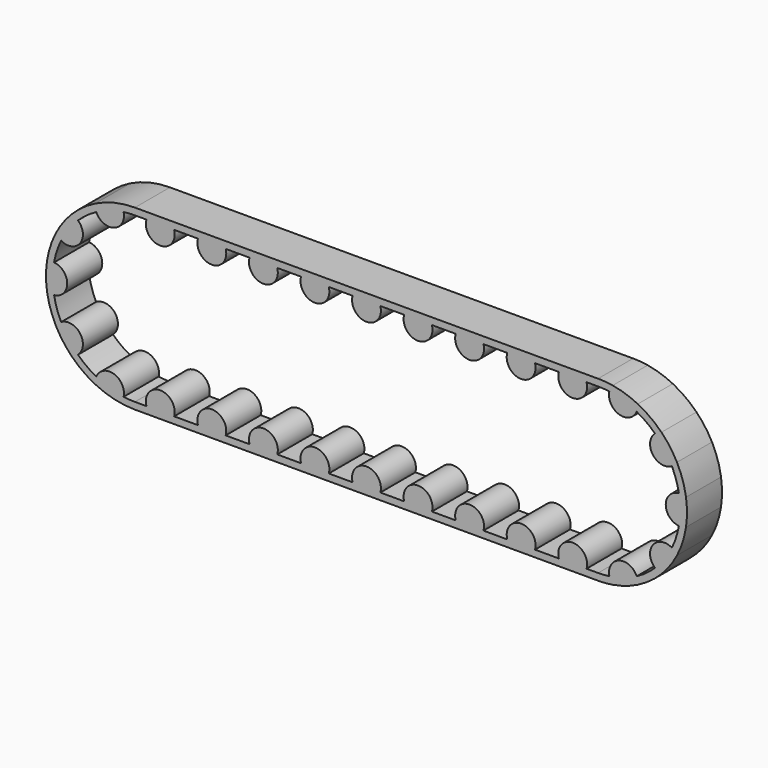
from build123d import *

# Parameters (mm, degrees)
F3_DEPTH = 25.4


with BuildPart() as f3:
    # F2 (on Front) → F3 (new body)
    with BuildSketch(Plane.XZ):
        with BuildLine():
            ThreePointArc((-6.5580901404, 47.171305671), (-3.2868824452, 47.5114410305), (0, 47.625))
            Line((0, 47.625), (6.6759446819, 47.625))
            ThreePointArc((6.6759446819, 47.625), (7.6523000339, 49.786472114), (9.1956373991, 51.5874))
            Line((9.1956373991, 51.5874), (0, 51.5874))
            ThreePointArc((0, 51.5874), (-4.2571154541, 51.4114462622), (-8.485190663, 50.8847853309))
            ThreePointArc((-8.485190663, 50.8847853309), (-7.2859359113, 49.1503637276), (-6.5580901404, 47.171305671))
        make_face()
        with BuildLine():
            ThreePointArc((-22.4209914306, 42.0171366024), (-14.7169343571, 45.2940665886), (-6.5580901404, 47.171305671))
            ThreePointArc((-6.5580901404, 47.171305671), (-7.2859359113, 49.1503637276), (-8.485190663, 50.8847853309))
            ThreePointArc((-8.485190663, 50.8847853309), (-15.9413832956, 49.0625329287), (-23.0446629367, 46.1541260224))
            ThreePointArc((-23.0446629367, 46.1541260224), (-22.9954129717, 44.0460452131), (-22.4209914306, 42.0171366024))
        make_face()
        with BuildLine():
            ThreePointArc((9.1956373991, 51.5874), (7.6523000339, 49.786472114), (6.6759446819, 47.625))
            Line((6.6759446819, 47.625), (22.7579240323, 47.625))
            ThreePointArc((22.7579240323, 47.625), (21.7815686803, 49.786472114), (20.2382313151, 51.5874))
            Line((20.2382313151, 51.5874), (9.1956373991, 51.5874))
        make_face()
        with BuildLine():
            ThreePointArc((-33.032204179, 34.307639267), (-27.9932726404, 38.5294343571), (-22.4209914306, 42.0171366024))
            ThreePointArc((-22.4209914306, 42.0171366024), (-22.9954129717, 44.0460452131), (-23.0446629367, 46.1541260224))
            ThreePointArc((-23.0446629367, 46.1541260224), (-30.3223129241, 41.7350832956), (-36.7739898304, 36.1791861533))
            ThreePointArc((-36.7739898304, 36.1791861533), (-34.7843049161, 35.4809138575), (-33.032204179, 34.307639267))
        make_face()
        with BuildLine():
            ThreePointArc((20.2382313151, 51.5874), (21.7815686803, 49.786472114), (22.7579240323, 47.625))
            Line((22.7579240323, 47.625), (36.5771902535, 47.625))
            ThreePointArc((36.5771902535, 47.625), (37.5535456055, 49.786472114), (39.0968829707, 51.5874))
            Line((39.0968829707, 51.5874), (20.2382313151, 51.5874))
        make_face()
        with BuildLine():
            ThreePointArc((-42.8360163366, 20.8138494617), (-38.5294343571, 27.9932726404), (-33.032204179, 34.307639267))
            ThreePointArc((-33.032204179, 34.307639267), (-34.7843049161, 35.4809138575), (-36.7739898304, 36.1791861533))
            ThreePointArc((-36.7739898304, 36.1791861533), (-41.7350832956, 30.3223129241), (-45.7722385539, 23.7941592944))
            ThreePointArc((-45.7722385539, 23.7941592944), (-44.4932956849, 22.1176344973), (-42.8360163366, 20.8138494617))
        make_face()
        with BuildLine():
            ThreePointArc((39.0968829707, 51.5874), (37.5535456055, 49.786472114), (36.5771902535, 47.625))
            Line((36.5771902535, 47.625), (52.6591696039, 47.625))
            ThreePointArc((52.6591696039, 47.625), (51.6828142519, 49.786472114), (50.1394768867, 51.5874))
            Line((50.1394768867, 51.5874), (39.0968829707, 51.5874))
        make_face()
        with BuildLine():
            ThreePointArc((-46.8891389446, 8.3396207368), (-45.2940665886, 14.7169343571), (-42.8360163366, 20.8138494617))
            ThreePointArc((-42.8360163366, 20.8138494617), (-44.4932956849, 22.1176344973), (-45.7722385539, 23.7941592944))
            ThreePointArc((-45.7722385539, 23.7941592944), (-49.0625329287, 15.9413832956), (-51.0163747846, 7.6543675504))
            ThreePointArc((-51.0163747846, 7.6543675504), (-48.9962517179, 8.2589608458), (-46.8891389446, 8.3396207368))
        make_face()
        with BuildLine():
            ThreePointArc((50.1394768867, 51.5874), (51.6828142519, 49.786472114), (52.6591696039, 47.625))
            Line((52.6591696039, 47.625), (66.478435825, 47.625))
            ThreePointArc((66.478435825, 47.625), (67.4547911771, 49.786472114), (68.9981285423, 51.5874))
            Line((68.9981285423, 51.5874), (50.1394768867, 51.5874))
        make_face()
        with BuildLine():
            ThreePointArc((-46.8891389446, -8.3396207368), (-47.625, 0), (-46.8891389446, 8.3396207368))
            ThreePointArc((-46.8891389446, 8.3396207368), (-48.9962517179, 8.2589608458), (-51.0163747846, 7.6543675504))
            ThreePointArc((-51.0163747846, 7.6543675504), (-51.5874, 0), (-51.0163747846, -7.6543675504))
            ThreePointArc((-51.0163747846, -7.6543675504), (-48.9962517179, -8.2589608458), (-46.8891389446, -8.3396207368))
        make_face()
        with BuildLine():
            ThreePointArc((68.9981285423, 51.5874), (67.4547911771, 49.786472114), (66.478435825, 47.625))
            Line((66.478435825, 47.625), (82.5604151755, 47.625))
            ThreePointArc((82.5604151755, 47.625), (81.5840598235, 49.786472114), (80.0407224583, 51.5874))
            Line((80.0407224583, 51.5874), (68.9981285423, 51.5874))
        make_face()
        with BuildLine():
            ThreePointArc((-42.8360163366, -20.8138494617), (-45.2940665886, -14.7169343571), (-46.8891389446, -8.3396207368))
            ThreePointArc((-46.8891389446, -8.3396207368), (-48.9962517179, -8.2589608458), (-51.0163747846, -7.6543675504))
            ThreePointArc((-51.0163747846, -7.6543675504), (-49.0625329287, -15.9413832956), (-45.7722385539, -23.7941592944))
            ThreePointArc((-45.7722385539, -23.7941592944), (-44.4932956849, -22.1176344973), (-42.8360163366, -20.8138494617))
        make_face()
        with BuildLine():
            ThreePointArc((80.0407224583, 51.5874), (81.5840598235, 49.786472114), (82.5604151755, 47.625))
            Line((82.5604151755, 47.625), (96.3796813966, 47.625))
            ThreePointArc((96.3796813966, 47.625), (97.3560367487, 49.786472114), (98.8993741139, 51.5874))
            Line((98.8993741139, 51.5874), (80.0407224583, 51.5874))
        make_face()
        with BuildLine():
            ThreePointArc((-33.032204179, -34.307639267), (-38.5294343571, -27.9932726404), (-42.8360163366, -20.8138494617))
            ThreePointArc((-42.8360163366, -20.8138494617), (-44.4932956849, -22.1176344973), (-45.7722385539, -23.7941592944))
            ThreePointArc((-45.7722385539, -23.7941592944), (-41.7350832956, -30.3223129241), (-36.7739898304, -36.1791861533))
            ThreePointArc((-36.7739898304, -36.1791861533), (-34.7843049161, -35.4809138575), (-33.032204179, -34.307639267))
        make_face()
        with BuildLine():
            ThreePointArc((98.8993741139, 51.5874), (97.3560367487, 49.786472114), (96.3796813966, 47.625))
            Line((96.3796813966, 47.625), (112.4616607471, 47.625))
            ThreePointArc((112.4616607471, 47.625), (111.485305395, 49.786472114), (109.9419680298, 51.5874))
            Line((109.9419680298, 51.5874), (98.8993741139, 51.5874))
        make_face()
        with BuildLine():
            ThreePointArc((-22.4209914306, -42.0171366024), (-27.9932726404, -38.5294343571), (-33.032204179, -34.307639267))
            ThreePointArc((-33.032204179, -34.307639267), (-34.7843049161, -35.4809138575), (-36.7739898304, -36.1791861533))
            ThreePointArc((-36.7739898304, -36.1791861533), (-30.3223129241, -41.7350832956), (-23.0446629367, -46.1541260224))
            ThreePointArc((-23.0446629367, -46.1541260224), (-22.9954129717, -44.0460452131), (-22.4209914306, -42.0171366024))
        make_face()
        with BuildLine():
            ThreePointArc((109.9419680298, 51.5874), (111.485305395, 49.786472114), (112.4616607471, 47.625))
            Line((112.4616607471, 47.625), (126.2809269682, 47.625))
            ThreePointArc((126.2809269682, 47.625), (127.2572823202, 49.786472114), (128.8006196855, 51.5874))
            Line((128.8006196855, 51.5874), (109.9419680298, 51.5874))
        make_face()
        with BuildLine():
            ThreePointArc((-6.5580901404, -47.171305671), (-14.7169343571, -45.2940665886), (-22.4209914306, -42.0171366024))
            ThreePointArc((-22.4209914306, -42.0171366024), (-22.9954129717, -44.0460452131), (-23.0446629367, -46.1541260224))
            ThreePointArc((-23.0446629367, -46.1541260224), (-15.9413832956, -49.0625329287), (-8.485190663, -50.8847853309))
            ThreePointArc((-8.485190663, -50.8847853309), (-7.2859359113, -49.1503637276), (-6.5580901404, -47.171305671))
        make_face()
        with BuildLine():
            ThreePointArc((128.8006196855, 51.5874), (127.2572823202, 49.786472114), (126.2809269682, 47.625))
            Line((126.2809269682, 47.625), (142.3629063187, 47.625))
            ThreePointArc((142.3629063187, 47.625), (141.3865509666, 49.786472114), (139.8432136014, 51.5874))
            Line((139.8432136014, 51.5874), (128.8006196855, 51.5874))
        make_face()
        with BuildLine():
            ThreePointArc((0, -47.625), (-3.2868824452, -47.5114410305), (-6.5580901404, -47.171305671))
            ThreePointArc((-6.5580901404, -47.171305671), (-7.2859359113, -49.1503637276), (-8.485190663, -50.8847853309))
            ThreePointArc((-8.485190663, -50.8847853309), (-4.2571154541, -51.4114462622), (0, -51.5874))
            Line((0, -51.5874), (9.1956373991, -51.5874))
            ThreePointArc((9.1956373991, -51.5874), (7.6523000339, -49.786472114), (6.6759446819, -47.625))
            Line((6.6759446819, -47.625), (0, -47.625))
        make_face()
        with BuildLine():
            ThreePointArc((139.8432136014, 51.5874), (141.3865509666, 49.786472114), (142.3629063187, 47.625))
            Line((142.3629063187, 47.625), (156.1821725398, 47.625))
            ThreePointArc((156.1821725398, 47.625), (157.1585278918, 49.786472114), (158.701865257, 51.5874))
            Line((158.701865257, 51.5874), (139.8432136014, 51.5874))
        make_face()
        with BuildLine():
            ThreePointArc((158.701865257, 51.5874), (157.1585278918, 49.786472114), (156.1821725398, 47.625))
            Line((156.1821725398, 47.625), (172.2641518903, 47.625))
            ThreePointArc((172.2641518903, 47.625), (171.2877965382, 49.786472114), (169.744459173, 51.5874))
            Line((169.744459173, 51.5874), (158.701865257, 51.5874))
        make_face()
        with BuildLine():
            Line((22.7579240323, -47.625), (6.6759446819, -47.625))
            ThreePointArc((6.6759446819, -47.625), (7.6523000339, -49.786472114), (9.1956373991, -51.5874))
            Line((9.1956373991, -51.5874), (20.2382313151, -51.5874))
            ThreePointArc((20.2382313151, -51.5874), (21.7815686803, -49.786472114), (22.7579240323, -47.625))
        make_face()
        with BuildLine():
            ThreePointArc((169.744459173, 51.5874), (171.2877965382, 49.786472114), (172.2641518903, 47.625))
            Line((172.2641518903, 47.625), (186.0834181114, 47.625))
            ThreePointArc((186.0834181114, 47.625), (187.0597734634, 49.786472114), (188.6031108286, 51.5874))
            Line((188.6031108286, 51.5874), (169.744459173, 51.5874))
        make_face()
        with BuildLine():
            Line((36.5771902535, -47.625), (22.7579240323, -47.625))
            ThreePointArc((22.7579240323, -47.625), (21.7815686803, -49.786472114), (20.2382313151, -51.5874))
            Line((20.2382313151, -51.5874), (39.0968829707, -51.5874))
            ThreePointArc((39.0968829707, -51.5874), (37.5535456055, -49.786472114), (36.5771902535, -47.625))
        make_face()
        with BuildLine():
            ThreePointArc((188.6031108286, 51.5874), (187.0597734634, 49.786472114), (186.0834181114, 47.625))
            Line((186.0834181114, 47.625), (202.1653974618, 47.625))
            ThreePointArc((202.1653974618, 47.625), (201.1890421098, 49.786472114), (199.6457047446, 51.5874))
            Line((199.6457047446, 51.5874), (188.6031108286, 51.5874))
        make_face()
        with BuildLine():
            Line((52.6591696039, -47.625), (36.5771902535, -47.625))
            ThreePointArc((36.5771902535, -47.625), (37.5535456055, -49.786472114), (39.0968829707, -51.5874))
            Line((39.0968829707, -51.5874), (50.1394768867, -51.5874))
            ThreePointArc((50.1394768867, -51.5874), (51.6828142519, -49.786472114), (52.6591696039, -47.625))
        make_face()
        with BuildLine():
            ThreePointArc((199.6457047446, 51.5874), (201.1890421098, 49.786472114), (202.1653974618, 47.625))
            Line((202.1653974618, 47.625), (215.984663683, 47.625))
            ThreePointArc((215.984663683, 47.625), (216.961019035, 49.786472114), (218.5043564002, 51.5874))
            Line((218.5043564002, 51.5874), (199.6457047446, 51.5874))
        make_face()
        with BuildLine():
            Line((66.478435825, -47.625), (52.6591696039, -47.625))
            ThreePointArc((52.6591696039, -47.625), (51.6828142519, -49.786472114), (50.1394768867, -51.5874))
            Line((50.1394768867, -51.5874), (68.9981285423, -51.5874))
            ThreePointArc((68.9981285423, -51.5874), (67.4547911771, -49.786472114), (66.478435825, -47.625))
        make_face()
        with BuildLine():
            ThreePointArc((218.5043564002, 51.5874), (216.961019035, 49.786472114), (215.984663683, 47.625))
            Line((215.984663683, 47.625), (232.0666430334, 47.625))
            ThreePointArc((232.0666430334, 47.625), (231.0902876814, 49.786472114), (229.5469503162, 51.5874))
            Line((229.5469503162, 51.5874), (218.5043564002, 51.5874))
        make_face()
        with BuildLine():
            Line((82.5604151755, -47.625), (66.478435825, -47.625))
            ThreePointArc((66.478435825, -47.625), (67.4547911771, -49.786472114), (68.9981285423, -51.5874))
            Line((68.9981285423, -51.5874), (80.0407224583, -51.5874))
            ThreePointArc((80.0407224583, -51.5874), (81.5840598235, -49.786472114), (82.5604151755, -47.625))
        make_face()
        with BuildLine():
            ThreePointArc((229.5469503162, 51.5874), (231.0902876814, 49.786472114), (232.0666430334, 47.625))
            Line((232.0666430334, 47.625), (245.8859092545, 47.625))
            ThreePointArc((245.8859092545, 47.625), (246.8622646066, 49.786472114), (248.4056019718, 51.5874))
            Line((248.4056019718, 51.5874), (229.5469503162, 51.5874))
        make_face()
        with BuildLine():
            Line((96.3796813966, -47.625), (82.5604151755, -47.625))
            ThreePointArc((82.5604151755, -47.625), (81.5840598235, -49.786472114), (80.0407224583, -51.5874))
            Line((80.0407224583, -51.5874), (98.8993741139, -51.5874))
            ThreePointArc((98.8993741139, -51.5874), (97.3560367487, -49.786472114), (96.3796813966, -47.625))
        make_face()
        with BuildLine():
            ThreePointArc((248.4056019718, 51.5874), (246.8622646066, 49.786472114), (245.8859092545, 47.625))
            Line((245.8859092545, 47.625), (261.967888605, 47.625))
            ThreePointArc((261.967888605, 47.625), (260.991533253, 49.786472114), (259.4481958878, 51.5874))
            Line((259.4481958878, 51.5874), (248.4056019718, 51.5874))
        make_face()
        with BuildLine():
            Line((112.4616607471, -47.625), (96.3796813966, -47.625))
            ThreePointArc((96.3796813966, -47.625), (97.3560367487, -49.786472114), (98.8993741139, -51.5874))
            Line((98.8993741139, -51.5874), (109.9419680298, -51.5874))
            ThreePointArc((109.9419680298, -51.5874), (111.485305395, -49.786472114), (112.4616607471, -47.625))
        make_face()
        with BuildLine():
            ThreePointArc((259.4481958878, 51.5874), (260.991533253, 49.786472114), (261.967888605, 47.625))
            Line((261.967888605, 47.625), (268.6438332869, 47.625))
            ThreePointArc((268.6438332869, 47.625), (271.930715732, 47.5114410305), (275.2019234272, 47.171305671))
            ThreePointArc((275.2019234272, 47.171305671), (275.9297691982, 49.1503637276), (277.1290239498, 50.8847853309))
            ThreePointArc((277.1290239498, 50.8847853309), (272.900948741, 51.4114462622), (268.6438332869, 51.5874))
            Line((268.6438332869, 51.5874), (259.4481958878, 51.5874))
        make_face()
        with BuildLine():
            Line((126.2809269682, -47.625), (112.4616607471, -47.625))
            ThreePointArc((112.4616607471, -47.625), (111.485305395, -49.786472114), (109.9419680298, -51.5874))
            Line((109.9419680298, -51.5874), (128.8006196855, -51.5874))
            ThreePointArc((128.8006196855, -51.5874), (127.2572823202, -49.786472114), (126.2809269682, -47.625))
        make_face()
        with BuildLine():
            Line((142.3629063187, -47.625), (126.2809269682, -47.625))
            ThreePointArc((126.2809269682, -47.625), (127.2572823202, -49.786472114), (128.8006196855, -51.5874))
            Line((128.8006196855, -51.5874), (139.8432136014, -51.5874))
            ThreePointArc((139.8432136014, -51.5874), (141.3865509666, -49.786472114), (142.3629063187, -47.625))
        make_face()
        with BuildLine():
            ThreePointArc((277.1290239498, 50.8847853309), (275.9297691982, 49.1503637276), (275.2019234272, 47.171305671))
            ThreePointArc((275.2019234272, 47.171305671), (283.360767644, 45.2940665886), (291.0648247175, 42.0171366024))
            ThreePointArc((291.0648247175, 42.0171366024), (291.6392462586, 44.0460452131), (291.6884962236, 46.1541260224))
            ThreePointArc((291.6884962236, 46.1541260224), (284.5852165825, 49.0625329287), (277.1290239498, 50.8847853309))
        make_face()
        with BuildLine():
            Line((156.1821725398, -47.625), (142.3629063187, -47.625))
            ThreePointArc((142.3629063187, -47.625), (141.3865509666, -49.786472114), (139.8432136014, -51.5874))
            Line((139.8432136014, -51.5874), (158.701865257, -51.5874))
            ThreePointArc((158.701865257, -51.5874), (157.1585278918, -49.786472114), (156.1821725398, -47.625))
        make_face()
        with BuildLine():
            ThreePointArc((291.6884962236, 46.1541260224), (291.6392462586, 44.0460452131), (291.0648247175, 42.0171366024))
            ThreePointArc((291.0648247175, 42.0171366024), (296.6371059273, 38.5294343571), (301.6760374659, 34.307639267))
            ThreePointArc((301.6760374659, 34.307639267), (303.4281382029, 35.4809138575), (305.4178231173, 36.1791861533))
            ThreePointArc((305.4178231173, 36.1791861533), (298.966146211, 41.7350832956), (291.6884962236, 46.1541260224))
        make_face()
        with BuildLine():
            Line((172.2641518903, -47.625), (156.1821725398, -47.625))
            ThreePointArc((156.1821725398, -47.625), (157.1585278918, -49.786472114), (158.701865257, -51.5874))
            Line((158.701865257, -51.5874), (169.744459173, -51.5874))
            ThreePointArc((169.744459173, -51.5874), (171.2877965382, -49.786472114), (172.2641518903, -47.625))
        make_face()
        with BuildLine():
            ThreePointArc((305.4178231173, 36.1791861533), (303.4281382029, 35.4809138575), (301.6760374659, 34.307639267))
            ThreePointArc((301.6760374659, 34.307639267), (307.173267644, 27.9932726404), (311.4798496235, 20.8138494617))
            ThreePointArc((311.4798496235, 20.8138494617), (313.1371289717, 22.1176344973), (314.4160718408, 23.7941592944))
            ThreePointArc((314.4160718408, 23.7941592944), (310.3789165825, 30.3223129241), (305.4178231173, 36.1791861533))
        make_face()
        with BuildLine():
            Line((186.0834181114, -47.625), (172.2641518903, -47.625))
            ThreePointArc((172.2641518903, -47.625), (171.2877965382, -49.786472114), (169.744459173, -51.5874))
            Line((169.744459173, -51.5874), (188.6031108286, -51.5874))
            ThreePointArc((188.6031108286, -51.5874), (187.0597734634, -49.786472114), (186.0834181114, -47.625))
        make_face()
        with BuildLine():
            ThreePointArc((314.4160718408, 23.7941592944), (313.1371289717, 22.1176344973), (311.4798496235, 20.8138494617))
            ThreePointArc((311.4798496235, 20.8138494617), (313.9378998754, 14.7169343571), (315.5329722315, 8.3396207368))
            ThreePointArc((315.5329722315, 8.3396207368), (317.6400850048, 8.2589608458), (319.6602080715, 7.6543675504))
            ThreePointArc((319.6602080715, 7.6543675504), (317.7063662156, 15.9413832956), (314.4160718408, 23.7941592944))
        make_face()
        with BuildLine():
            Line((202.1653974618, -47.625), (186.0834181114, -47.625))
            ThreePointArc((186.0834181114, -47.625), (187.0597734634, -49.786472114), (188.6031108286, -51.5874))
            Line((188.6031108286, -51.5874), (199.6457047446, -51.5874))
            ThreePointArc((199.6457047446, -51.5874), (201.1890421098, -49.786472114), (202.1653974618, -47.625))
        make_face()
        with BuildLine():
            ThreePointArc((319.6602080715, 7.6543675504), (317.6400850048, 8.2589608458), (315.5329722315, 8.3396207368))
            ThreePointArc((315.5329722315, 8.3396207368), (316.2688332869, 0), (315.5329722315, -8.3396207368))
            ThreePointArc((315.5329722315, -8.3396207368), (317.6400850048, -8.2589608458), (319.6602080715, -7.6543675504))
            ThreePointArc((319.6602080715, -7.6543675504), (320.2312332869, 0), (319.6602080715, 7.6543675504))
        make_face()
        with BuildLine():
            Line((215.984663683, -47.625), (202.1653974618, -47.625))
            ThreePointArc((202.1653974618, -47.625), (201.1890421098, -49.786472114), (199.6457047446, -51.5874))
            Line((199.6457047446, -51.5874), (218.5043564002, -51.5874))
            ThreePointArc((218.5043564002, -51.5874), (216.961019035, -49.786472114), (215.984663683, -47.625))
        make_face()
        with BuildLine():
            ThreePointArc((319.6602080715, -7.6543675504), (317.6400850048, -8.2589608458), (315.5329722315, -8.3396207368))
            ThreePointArc((315.5329722315, -8.3396207368), (313.9378998754, -14.7169343571), (311.4798496235, -20.8138494617))
            ThreePointArc((311.4798496235, -20.8138494617), (313.1371289717, -22.1176344973), (314.4160718408, -23.7941592944))
            ThreePointArc((314.4160718408, -23.7941592944), (317.7063662156, -15.9413832956), (319.6602080715, -7.6543675504))
        make_face()
        with BuildLine():
            Line((232.0666430334, -47.625), (215.984663683, -47.625))
            ThreePointArc((215.984663683, -47.625), (216.961019035, -49.786472114), (218.5043564002, -51.5874))
            Line((218.5043564002, -51.5874), (229.5469503162, -51.5874))
            ThreePointArc((229.5469503162, -51.5874), (231.0902876814, -49.786472114), (232.0666430334, -47.625))
        make_face()
        with BuildLine():
            ThreePointArc((314.4160718408, -23.7941592944), (313.1371289717, -22.1176344973), (311.4798496235, -20.8138494617))
            ThreePointArc((311.4798496235, -20.8138494617), (307.173267644, -27.9932726404), (301.6760374659, -34.307639267))
            ThreePointArc((301.6760374659, -34.307639267), (303.4281382029, -35.4809138575), (305.4178231173, -36.1791861533))
            ThreePointArc((305.4178231173, -36.1791861533), (310.3789165825, -30.3223129241), (314.4160718408, -23.7941592944))
        make_face()
        with BuildLine():
            Line((245.8859092545, -47.625), (232.0666430334, -47.625))
            ThreePointArc((232.0666430334, -47.625), (231.0902876814, -49.786472114), (229.5469503162, -51.5874))
            Line((229.5469503162, -51.5874), (248.4056019718, -51.5874))
            ThreePointArc((248.4056019718, -51.5874), (246.8622646066, -49.786472114), (245.8859092545, -47.625))
        make_face()
        with BuildLine():
            ThreePointArc((305.4178231173, -36.1791861533), (303.4281382029, -35.4809138575), (301.6760374659, -34.307639267))
            ThreePointArc((301.6760374659, -34.307639267), (296.6371059273, -38.5294343571), (291.0648247175, -42.0171366024))
            ThreePointArc((291.0648247175, -42.0171366024), (291.6392462586, -44.0460452131), (291.6884962236, -46.1541260224))
            ThreePointArc((291.6884962236, -46.1541260224), (298.966146211, -41.7350832956), (305.4178231173, -36.1791861533))
        make_face()
        with BuildLine():
            Line((261.967888605, -47.625), (245.8859092545, -47.625))
            ThreePointArc((245.8859092545, -47.625), (246.8622646066, -49.786472114), (248.4056019718, -51.5874))
            Line((248.4056019718, -51.5874), (259.4481958878, -51.5874))
            ThreePointArc((259.4481958878, -51.5874), (260.991533253, -49.786472114), (261.967888605, -47.625))
        make_face()
        with BuildLine():
            ThreePointArc((291.6884962236, -46.1541260224), (291.6392462586, -44.0460452131), (291.0648247175, -42.0171366024))
            ThreePointArc((291.0648247175, -42.0171366024), (283.360767644, -45.2940665886), (275.2019234272, -47.171305671))
            ThreePointArc((275.2019234272, -47.171305671), (275.9297691982, -49.1503637276), (277.1290239498, -50.8847853309))
            ThreePointArc((277.1290239498, -50.8847853309), (284.5852165825, -49.0625329287), (291.6884962236, -46.1541260224))
        make_face()
        with BuildLine():
            Line((268.6438332869, -47.625), (261.967888605, -47.625))
            ThreePointArc((261.967888605, -47.625), (260.991533253, -49.786472114), (259.4481958878, -51.5874))
            Line((259.4481958878, -51.5874), (268.6438332869, -51.5874))
            ThreePointArc((268.6438332869, -51.5874), (272.900948741, -51.4114462622), (277.1290239498, -50.8847853309))
            ThreePointArc((277.1290239498, -50.8847853309), (275.9297691982, -49.1503637276), (275.2019234272, -47.171305671))
            ThreePointArc((275.2019234272, -47.171305671), (271.930715732, -47.5114410305), (268.6438332869, -47.625))
        make_face()
        with BuildLine():
            ThreePointArc((-46.8891389446, -8.3396207368), (-39.2529772142, 0), (-46.8891389446, 8.3396207368))
            ThreePointArc((-46.8891389446, 8.3396207368), (-47.625, 0), (-46.8891389446, -8.3396207368))
        make_face()
        with BuildLine():
            ThreePointArc((-33.032204179, -34.307639267), (-31.7563256461, -23.0723211151), (-42.8360163366, -20.8138494617))
            ThreePointArc((-42.8360163366, -20.8138494617), (-38.5294343571, -27.9932726404), (-33.032204179, -34.307639267))
        make_face()
        with BuildLine():
            ThreePointArc((-6.5580901404, -47.171305671), (-12.129837039, -37.3317997636), (-22.4209914306, -42.0171366024))
            ThreePointArc((-22.4209914306, -42.0171366024), (-14.7169343571, -45.2940665886), (-6.5580901404, -47.171305671))
        make_face()
        with BuildLine():
            ThreePointArc((22.7579240323, -47.625), (14.7169343571, -36.9220438028), (6.6759446819, -47.625))
            Line((6.6759446819, -47.625), (22.7579240323, -47.625))
        make_face()
        with BuildLine():
            ThreePointArc((52.6591696039, -47.625), (44.6181799287, -36.9220438028), (36.5771902535, -47.625))
            Line((36.5771902535, -47.625), (52.6591696039, -47.625))
        make_face()
        with BuildLine():
            ThreePointArc((82.5604151755, -47.625), (74.5194255003, -36.9220438028), (66.478435825, -47.625))
            Line((66.478435825, -47.625), (82.5604151755, -47.625))
        make_face()
        with BuildLine():
            ThreePointArc((112.4616607471, -47.625), (104.4206710719, -36.9220438028), (96.3796813966, -47.625))
            Line((96.3796813966, -47.625), (112.4616607471, -47.625))
        make_face()
        with BuildLine():
            ThreePointArc((142.3629063187, -47.625), (134.3219166434, -36.9220438028), (126.2809269682, -47.625))
            Line((126.2809269682, -47.625), (142.3629063187, -47.625))
        make_face()
        with BuildLine():
            ThreePointArc((172.2641518903, -47.625), (164.223162215, -36.9220438028), (156.1821725398, -47.625))
            Line((156.1821725398, -47.625), (172.2641518903, -47.625))
        make_face()
        with BuildLine():
            ThreePointArc((202.1653974618, -47.625), (194.1244077866, -36.9220438028), (186.0834181114, -47.625))
            Line((186.0834181114, -47.625), (202.1653974618, -47.625))
        make_face()
        with BuildLine():
            ThreePointArc((232.0666430334, -47.625), (224.0256533582, -36.9220438028), (215.984663683, -47.625))
            Line((215.984663683, -47.625), (232.0666430334, -47.625))
        make_face()
        with BuildLine():
            ThreePointArc((261.967888605, -47.625), (253.9268989298, -36.9220438028), (245.8859092545, -47.625))
            Line((245.8859092545, -47.625), (261.967888605, -47.625))
        make_face()
        with BuildLine():
            ThreePointArc((275.2019234272, -47.171305671), (283.360767644, -45.2940665886), (291.0648247175, -42.0171366024))
            ThreePointArc((291.0648247175, -42.0171366024), (280.7736703259, -37.3317997636), (275.2019234272, -47.171305671))
        make_face()
        with BuildLine():
            ThreePointArc((301.6760374659, -34.307639267), (307.173267644, -27.9932726404), (311.4798496235, -20.8138494617))
            ThreePointArc((311.4798496235, -20.8138494617), (300.400158933, -23.0723211151), (301.6760374659, -34.307639267))
        make_face()
        with BuildLine():
            ThreePointArc((315.5329722315, -8.3396207368), (316.2688332869, 0), (315.5329722315, 8.3396207368))
            ThreePointArc((315.5329722315, 8.3396207368), (307.8968105011, 0), (315.5329722315, -8.3396207368))
        make_face()
        with BuildLine():
            ThreePointArc((311.4798496235, 20.8138494617), (307.173267644, 27.9932726404), (301.6760374659, 34.307639267))
            ThreePointArc((301.6760374659, 34.307639267), (300.400158933, 23.0723211151), (311.4798496235, 20.8138494617))
        make_face()
        with BuildLine():
            ThreePointArc((291.0648247175, 42.0171366024), (283.360767644, 45.2940665886), (275.2019234272, 47.171305671))
            ThreePointArc((275.2019234272, 47.171305671), (280.7736703259, 37.3317997636), (291.0648247175, 42.0171366024))
        make_face()
        with BuildLine():
            Line((261.967888605, 47.625), (245.8859092545, 47.625))
            ThreePointArc((245.8859092545, 47.625), (253.9268989298, 36.9220438028), (261.967888605, 47.625))
        make_face()
        with BuildLine():
            Line((232.0666430334, 47.625), (215.984663683, 47.625))
            ThreePointArc((215.984663683, 47.625), (224.0256533582, 36.9220438028), (232.0666430334, 47.625))
        make_face()
        with BuildLine():
            Line((202.1653974618, 47.625), (186.0834181114, 47.625))
            ThreePointArc((186.0834181114, 47.625), (194.1244077866, 36.9220438028), (202.1653974618, 47.625))
        make_face()
        with BuildLine():
            Line((172.2641518903, 47.625), (156.1821725398, 47.625))
            ThreePointArc((156.1821725398, 47.625), (164.223162215, 36.9220438028), (172.2641518903, 47.625))
        make_face()
        with BuildLine():
            Line((142.3629063187, 47.625), (126.2809269682, 47.625))
            ThreePointArc((126.2809269682, 47.625), (134.3219166434, 36.9220438028), (142.3629063187, 47.625))
        make_face()
        with BuildLine():
            Line((112.4616607471, 47.625), (96.3796813966, 47.625))
            ThreePointArc((96.3796813966, 47.625), (104.4206710719, 36.9220438028), (112.4616607471, 47.625))
        make_face()
        with BuildLine():
            Line((82.5604151755, 47.625), (66.478435825, 47.625))
            ThreePointArc((66.478435825, 47.625), (74.5194255003, 36.9220438028), (82.5604151755, 47.625))
        make_face()
        with BuildLine():
            Line((52.6591696039, 47.625), (36.5771902535, 47.625))
            ThreePointArc((36.5771902535, 47.625), (44.6181799287, 36.9220438028), (52.6591696039, 47.625))
        make_face()
        with BuildLine():
            Line((22.7579240323, 47.625), (6.6759446819, 47.625))
            ThreePointArc((6.6759446819, 47.625), (14.7169343571, 36.9220438028), (22.7579240323, 47.625))
        make_face()
        with BuildLine():
            ThreePointArc((-22.4209914306, 42.0171366024), (-12.129837039, 37.3317997636), (-6.5580901404, 47.171305671))
            ThreePointArc((-6.5580901404, 47.171305671), (-14.7169343571, 45.2940665886), (-22.4209914306, 42.0171366024))
        make_face()
        with BuildLine():
            ThreePointArc((-42.8360163366, 20.8138494617), (-31.7563256461, 23.0723211151), (-33.032204179, 34.307639267))
            ThreePointArc((-33.032204179, 34.307639267), (-38.5294343571, 27.9932726404), (-42.8360163366, 20.8138494617))
        make_face()
    extrude(amount=F3_DEPTH)


solid = f3.part
